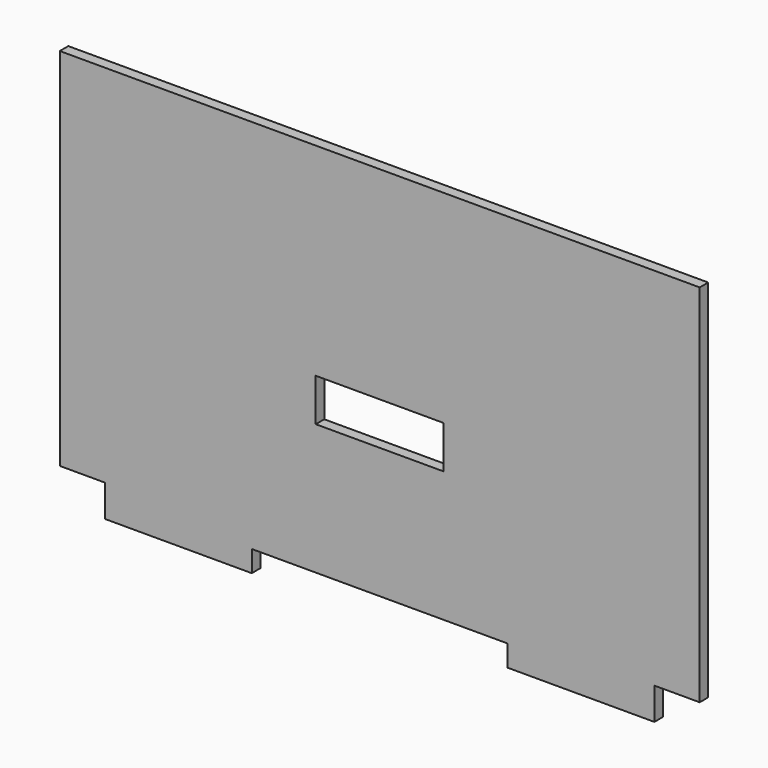
from build123d import *

# Parameters (mm, degrees)
F0_W     = 1.5875
F0_H     = 38.1
F1_DEPTH = 12.7


with BuildPart() as f1:
    # F0 (on Front) → F1 (new body)
    with BuildSketch(Plane.XZ):
        Polygon((-19.05, 38.1), (-12.7, 38.1), (-12.7, 473.075), (-774.7, 473.075), (-774.7, 38.1), (-768.35, 38.1), (-720.725, 38.1), (-719.1375, 38.1), (-719.1375, 0), (-546.1, 0), (-546.1, 25.4), (-393.7, 25.4), (-241.3, 25.4), (-241.3, 0), (-68.2625, 0), (-68.2625, 38.1), (-66.675, 38.1), align=None)
        Polygon((-469.9, 231.775), (-393.7, 231.775), (-317.5, 231.775), (-317.5, 180.975), (-393.7, 180.975), (-469.9, 180.975), align=None, mode=Mode.SUBTRACT)
        with Locations((-67.46875, 19.05)):
            Rectangle(F0_W, F0_H)
        with Locations((-719.93125, 19.05)):
            Rectangle(F0_W, F0_H)
    extrude(amount=F1_DEPTH)


solid = f1.part
